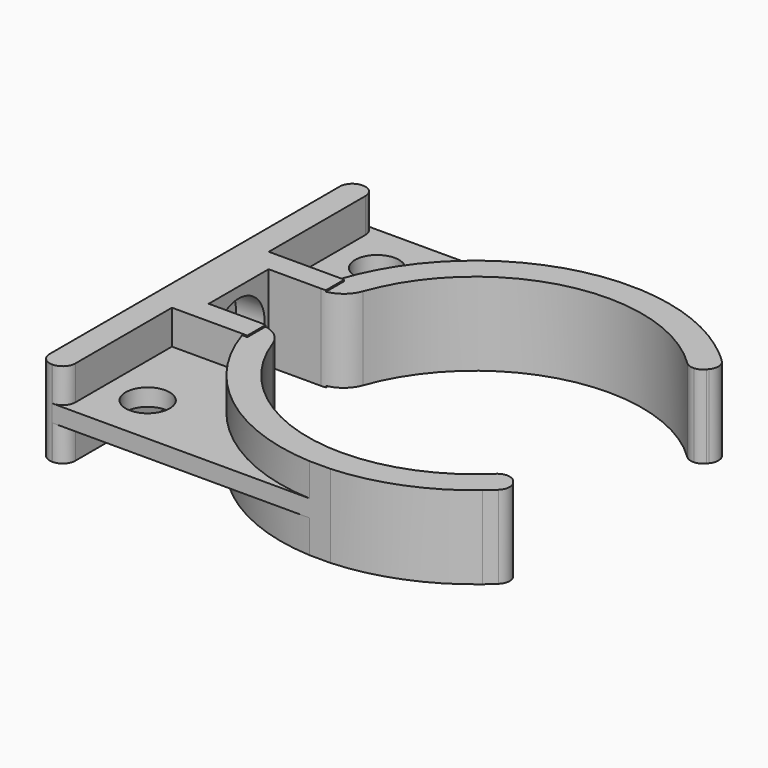
from build123d import *

# Parameters (mm, degrees)
F1_DEPTH  = 7.5
F2_W      = 21.2
F2_H      = 15
F3_DEPTH  = 5.45
F4_W      = 4.05
F4_H      = 15
F5_DEPTH  = 10
F6_R      = 3.85
F7_DEPTH  = 1.5
F8_DEPTH  = 7.25
F9_R      = 5
F10_R     = 5.65
F11_DEPTH = 5
F12_R     = 2
F13_DEPTH = 25


with BuildPart() as f1:
    # F0 (on Top) → F1 (new body, symmetric)
    with BuildSketch(Plane.XY):
        with BuildLine():
            ThreePointArc((2.25, 31.755662), (1.607293, 33.307293), (0.055662, 33.95))
            Line((0.055662, 33.95), (-0.055662, 33.95))
            ThreePointArc((-0.055662, 33.95), (-1.607293, 33.307293), (-2.25, 31.755662))
            Line((-2.25, 31.755662), (-2.25, -31.755662))
            ThreePointArc((-2.25, -31.755662), (-1.607293, -33.307293), (-0.055662, -33.95))
            Line((-0.055662, -33.95), (0.055662, -33.95))
            ThreePointArc((0.055662, -33.95), (1.607293, -33.307293), (2.25, -31.755662))
            Line((2.25, -31.755662), (2.25, 31.755662))
        make_face()
    extrude(amount=F1_DEPTH, both=True)

    # F2 (on Right) → F3 (join)
    with BuildSketch(Plane.YZ):
        Rectangle(F2_W, F2_H)
    extrude(amount=F3_DEPTH)

    # F4 (on face) → F5 (join)
    with BuildSketch(Plane.YZ.offset(5.45)):
        with Locations((8.575, 0)):
            Rectangle(F4_W, F4_H)
        with Locations((-8.575, 0)):
            Rectangle(F4_W, F4_H)
    extrude(amount=F5_DEPTH)

    # F6 (on Top) → F7 (join, symmetric)
    with BuildSketch(Plane.XY):
        with BuildLine():
            Line((44.995906, 33.95), (0.055662, 33.95))
            ThreePointArc((0.055662, 33.95), (1.607293, 33.307293), (2.25, 31.755662))
            Line((2.25, 31.755662), (2.25, 10.6))
            Line((2.25, 10.6), (14.533719, 10.6))
            ThreePointArc((14.533719, 10.6), (26.154887, 26.984474), (44.995906, 33.95))
        make_face()
        with Locations((9.6, 25.1)):
            Circle(F6_R, mode=Mode.SUBTRACT)
        with BuildLine():
            Line((2.25, -10.6), (2.25, -31.755662))
            ThreePointArc((2.25, -31.755662), (1.607293, -33.307293), (0.055662, -33.95))
            Line((0.055662, -33.95), (44.995906, -33.95))
            ThreePointArc((44.995906, -33.95), (26.154887, -26.984474), (14.533719, -10.6))
            Line((14.533719, -10.6), (2.25, -10.6))
        make_face()
        with Locations((9.6, -25.1)):
            Circle(F6_R, mode=Mode.SUBTRACT)
    extrude(amount=F7_DEPTH, both=True)

    # F6 (on Top) → F8 (join, symmetric)
    with BuildSketch(Plane.XY):
        with BuildLine():
            Line((48.682367, 33.95), (44.995906, 33.95))
            ThreePointArc((44.995906, 33.95), (26.154887, 26.984474), (14.533719, 10.6))
            Line((14.533719, 10.6), (15.45, 10.6))
            Line((15.45, 10.6), (15.45, 6.55))
            Line((15.45, 6.55), (18.331945, 6.55))
            ThreePointArc((18.331945, 6.55), (38.555461, 28.052508), (67.215495, 20.984912))
            ThreePointArc((67.215495, 20.984912), (67.968637, 20.506465), (68.85, 20.367419))
            Line((68.85, 20.367419), (68.85, 25.913739))
            ThreePointArc((68.85, 25.913739), (59.424836, 31.584809), (48.682367, 33.95))
        make_face()
        with BuildLine():
            Line((15.45, -10.6), (14.533719, -10.6))
            ThreePointArc((14.533719, -10.6), (26.154887, -26.984474), (44.995906, -33.95))
            Line((44.995906, -33.95), (48.682367, -33.95))
            ThreePointArc((48.682367, -33.95), (59.424836, -31.584809), (68.85, -25.913739))
            Line((68.85, -25.913739), (68.85, -20.367419))
            ThreePointArc((68.85, -20.367419), (67.968637, -20.506465), (67.215495, -20.984912))
            ThreePointArc((67.215495, -20.984912), (38.555461, -28.052508), (18.331945, -6.55))
            Line((18.331945, -6.55), (15.45, -6.55))
            Line((15.45, -6.55), (15.45, -10.6))
        make_face()
        with BuildLine():
            ThreePointArc((70.503742, 24.412834), (69.689198, 25.176869), (68.85, 25.913739))
            Line((68.85, 25.913739), (68.85, 20.367419))
            ThreePointArc((68.85, 20.367419), (69.721282, 20.594438), (70.428051, 21.152243))
            Line((70.428051, 21.152243), (70.660364, 21.430287))
            ThreePointArc((70.660364, 21.430287), (71.167762, 22.952317), (70.503742, 24.412834))
        make_face()
        with BuildLine():
            Line((68.85, -20.367419), (68.85, -25.913739))
            ThreePointArc((68.85, -25.913739), (69.689198, -25.176869), (70.503742, -24.412834))
            ThreePointArc((70.503742, -24.412834), (71.167762, -22.952317), (70.660364, -21.430287))
            Line((70.660364, -21.430287), (70.428051, -21.152243))
            ThreePointArc((70.428051, -21.152243), (69.721282, -20.594438), (68.85, -20.367419))
        make_face()
    extrude(amount=F8_DEPTH, both=True)

    # F9
    f9_edges = [f1.edges().sort_by_distance(p)[0] for p in [
        (18.331945, 6.55, 0),
        (18.331945, -6.55, 0),
    ]]
    fillet(f9_edges, radius=F9_R)

    # F10 (on face) → F11 (cut)
    with BuildSketch(Plane.YZ.offset(5.45)):
        Circle(F10_R)
    extrude(amount=-F11_DEPTH, mode=Mode.SUBTRACT)

    # F12 (on face) → F13 (cut)
    with BuildSketch(Plane.YZ.offset(0.45)):
        Circle(F12_R)
    extrude(amount=-F13_DEPTH, mode=Mode.SUBTRACT)


solid = f1.part
